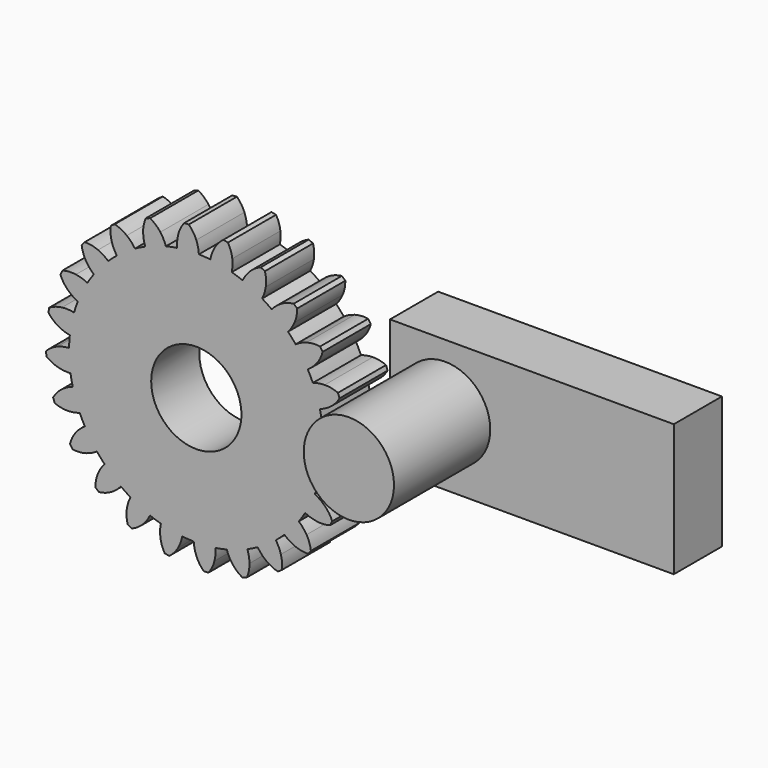
from build123d import *

# Parameters (mm, degrees)
F1_DEPTH = 25.4
F2_COUNT = 24
F2_ANGLE = 345
F4_R     = 19.05
F5_DEPTH = 25.401
F6_R     = 19.05
F6_W     = 119.815308
F6_H     = 55.775102
F7_DEPTH = 25.4
F8_DEPTH = 76.2


with BuildPart() as f1:
    # F0 (on Front) → F1 (new body)
    with BuildSketch(Plane.XZ):
        with BuildLine():
            ThreePointArc((-8.095699, 53.10749), (-35.007405, -40.748343), (53.721, 0))
            ThreePointArc((53.721, 0), (38.371504, 37.59752), (1.094521, 53.709849))
            ThreePointArc((1.094521, 53.709849), (-3.513522, 53.605979), (-8.095699, 53.10749))
        make_face()
        with BuildLine():
            ThreePointArc((-8.095699, 53.10749), (-3.513522, 53.605979), (1.094521, 53.709849))
            ThreePointArc((1.094521, 53.709849), (0.749148, 56.236438), (0, 58.674))
            ThreePointArc((0, 58.674), (-1.335061, 61.213815), (-3.168593, 63.420896))
            ThreePointArc((-3.168593, 63.420896), (-4.152715, 63.358184), (-5.136603, 63.291906))
            ThreePointArc((-5.136603, 63.291906), (-6.666367, 60.864383), (-7.658494, 58.172036))
            ThreePointArc((-7.658494, 58.172036), (-8.083067, 55.657544), (-8.095699, 53.10749))
        make_face()
    extrude(amount=F1_DEPTH)


with BuildPart() as f2_1:
    # F2: instance of F1
    add(f1.part.rotate(Axis((0, 0, 0), (0, 1, 0)), 1 * F2_ANGLE / (F2_COUNT - 1)))


with BuildPart() as f2_2:
    # F2: instance of F1
    add(f1.part.rotate(Axis((0, 0, 0), (0, 1, 0)), 2 * F2_ANGLE / (F2_COUNT - 1)))


with BuildPart() as f2_3:
    # F2: instance of F1
    add(f1.part.rotate(Axis((0, 0, 0), (0, 1, 0)), 3 * F2_ANGLE / (F2_COUNT - 1)))


with BuildPart() as f2_4:
    # F2: instance of F1
    add(f1.part.rotate(Axis((0, 0, 0), (0, 1, 0)), 4 * F2_ANGLE / (F2_COUNT - 1)))


with BuildPart() as f2_5:
    # F2: instance of F1
    add(f1.part.rotate(Axis((0, 0, 0), (0, 1, 0)), 5 * F2_ANGLE / (F2_COUNT - 1)))


with BuildPart() as f2_6:
    # F2: instance of F1
    add(f1.part.rotate(Axis((0, 0, 0), (0, 1, 0)), 6 * F2_ANGLE / (F2_COUNT - 1)))


with BuildPart() as f2_7:
    # F2: instance of F1
    add(f1.part.rotate(Axis((0, 0, 0), (0, 1, 0)), 7 * F2_ANGLE / (F2_COUNT - 1)))


with BuildPart() as f2_8:
    # F2: instance of F1
    add(f1.part.rotate(Axis((0, 0, 0), (0, 1, 0)), 8 * F2_ANGLE / (F2_COUNT - 1)))


with BuildPart() as f2_9:
    # F2: instance of F1
    add(f1.part.rotate(Axis((0, 0, 0), (0, 1, 0)), 9 * F2_ANGLE / (F2_COUNT - 1)))


with BuildPart() as f2_10:
    # F2: instance of F1
    add(f1.part.rotate(Axis((0, 0, 0), (0, 1, 0)), 10 * F2_ANGLE / (F2_COUNT - 1)))


with BuildPart() as f2_11:
    # F2: instance of F1
    add(f1.part.rotate(Axis((0, 0, 0), (0, 1, 0)), 11 * F2_ANGLE / (F2_COUNT - 1)))


with BuildPart() as f2_12:
    # F2: instance of F1
    add(f1.part.rotate(Axis((0, 0, 0), (0, 1, 0)), 12 * F2_ANGLE / (F2_COUNT - 1)))


with BuildPart() as f2_13:
    # F2: instance of F1
    add(f1.part.rotate(Axis((0, 0, 0), (0, 1, 0)), 13 * F2_ANGLE / (F2_COUNT - 1)))


with BuildPart() as f2_14:
    # F2: instance of F1
    add(f1.part.rotate(Axis((0, 0, 0), (0, 1, 0)), 14 * F2_ANGLE / (F2_COUNT - 1)))


with BuildPart() as f2_15:
    # F2: instance of F1
    add(f1.part.rotate(Axis((0, 0, 0), (0, 1, 0)), 15 * F2_ANGLE / (F2_COUNT - 1)))


with BuildPart() as f2_16:
    # F2: instance of F1
    add(f1.part.rotate(Axis((0, 0, 0), (0, 1, 0)), 16 * F2_ANGLE / (F2_COUNT - 1)))


with BuildPart() as f2_17:
    # F2: instance of F1
    add(f1.part.rotate(Axis((0, 0, 0), (0, 1, 0)), 17 * F2_ANGLE / (F2_COUNT - 1)))


with BuildPart() as f2_18:
    # F2: instance of F1
    add(f1.part.rotate(Axis((0, 0, 0), (0, 1, 0)), 18 * F2_ANGLE / (F2_COUNT - 1)))


with BuildPart() as f2_19:
    # F2: instance of F1
    add(f1.part.rotate(Axis((0, 0, 0), (0, 1, 0)), 19 * F2_ANGLE / (F2_COUNT - 1)))


with BuildPart() as f2_20:
    # F2: instance of F1
    add(f1.part.rotate(Axis((0, 0, 0), (0, 1, 0)), 20 * F2_ANGLE / (F2_COUNT - 1)))


with BuildPart() as f2_21:
    # F2: instance of F1
    add(f1.part.rotate(Axis((0, 0, 0), (0, 1, 0)), 21 * F2_ANGLE / (F2_COUNT - 1)))


with BuildPart() as f2_22:
    # F2: instance of F1
    add(f1.part.rotate(Axis((0, 0, 0), (0, 1, 0)), 22 * F2_ANGLE / (F2_COUNT - 1)))


with BuildPart() as f2_23:
    # F2: instance of F1
    add(f1.part.rotate(Axis((0, 0, 0), (0, 1, 0)), 23 * F2_ANGLE / (F2_COUNT - 1)))


with BuildPart() as f2_9_1:
    add(f2_9.part)

    # F3: union F2_23, F2_22, F2_21, F2_20, F2_16, F2_18, F2_17, F2_19, F2_15, F2_14, F2_12, F2_13, F2_11, F2_10, F2_8, F2_7, F2_6, F2_5, F2_4, F2_2, F2_3, F2_1, F1
    add(f2_23.part)
    add(f2_22.part)
    add(f2_21.part)
    add(f2_20.part)
    add(f2_16.part)
    add(f2_18.part)
    add(f2_17.part)
    add(f2_19.part)
    add(f2_15.part)
    add(f2_14.part)
    add(f2_12.part)
    add(f2_13.part)
    add(f2_11.part)
    add(f2_10.part)
    add(f2_8.part)
    add(f2_7.part)
    add(f2_6.part)
    add(f2_5.part)
    add(f2_4.part)
    add(f2_2.part)
    add(f2_3.part)
    add(f2_1.part)
    add(f1.part)

    # F4 (on face) → F5 (cut, through all)
    with BuildSketch(Plane(origin=(0, 0, 0), x_dir=(-1, 0, 0), z_dir=(0, 1, 0))):
        Circle(F4_R)
    extrude(amount=-F5_DEPTH, mode=Mode.SUBTRACT)


with BuildPart() as f7:
    # F6 (on Front) → F7 (new body)
    with BuildSketch(Plane.XZ):
        with Locations((105.054826, 28.58206)):
            Circle(F6_R)
        with Locations((141.686849, 27.887551)):
            Rectangle(F6_W, F6_H)
        with Locations((105.054826, 28.58206)):
            Circle(F6_R, mode=Mode.SUBTRACT)
    extrude(amount=F7_DEPTH)

    # F6 (on Front) → F8 (join)
    with BuildSketch(Plane.XZ):
        with Locations((105.054826, 28.58206)):
            Circle(F6_R)
    extrude(amount=F8_DEPTH)


solid = Compound([f2_9_1.part, f7.part])
